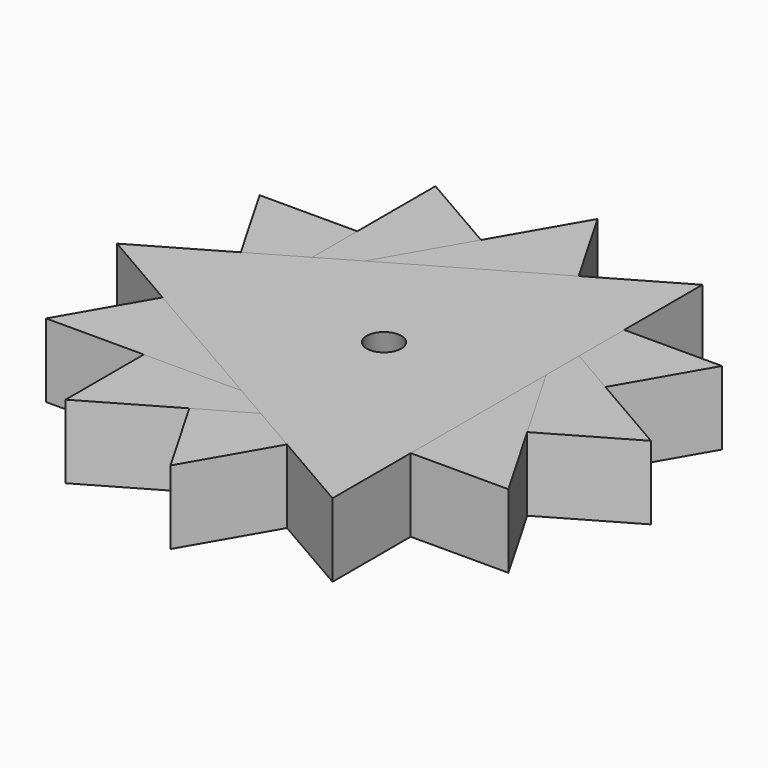
from build123d import *

# Parameters (mm, degrees)
F0_R     = 5.984991
F1_DEPTH = 25.4
F2_COUNT = 4


with BuildPart() as f1:
    # F0 (on Top) → F1 (new body)
    with BuildSketch(Plane.XY):
        Polygon((79.785809, 46.064358), (-79.785809, 46.064358), (0, -92.128716), align=None)
        Circle(F0_R, mode=Mode.SUBTRACT)
    extrude(amount=F1_DEPTH)


with BuildPart() as f2_1:
    # F2: instance of F1
    add(f1.part.rotate(Axis((0, 0, 25.4), (0, 0, 1)), 1 * 360 / F2_COUNT))


with BuildPart() as f2_2:
    # F2: instance of F1
    add(f1.part.rotate(Axis((0, 0, 25.4), (0, 0, 1)), 2 * 360 / F2_COUNT))


with BuildPart() as f2_3:
    # F2: instance of F1
    add(f1.part.rotate(Axis((0, 0, 25.4), (0, 0, 1)), 3 * 360 / F2_COUNT))


solid = Compound([f1.part, f2_1.part, f2_2.part, f2_3.part])
